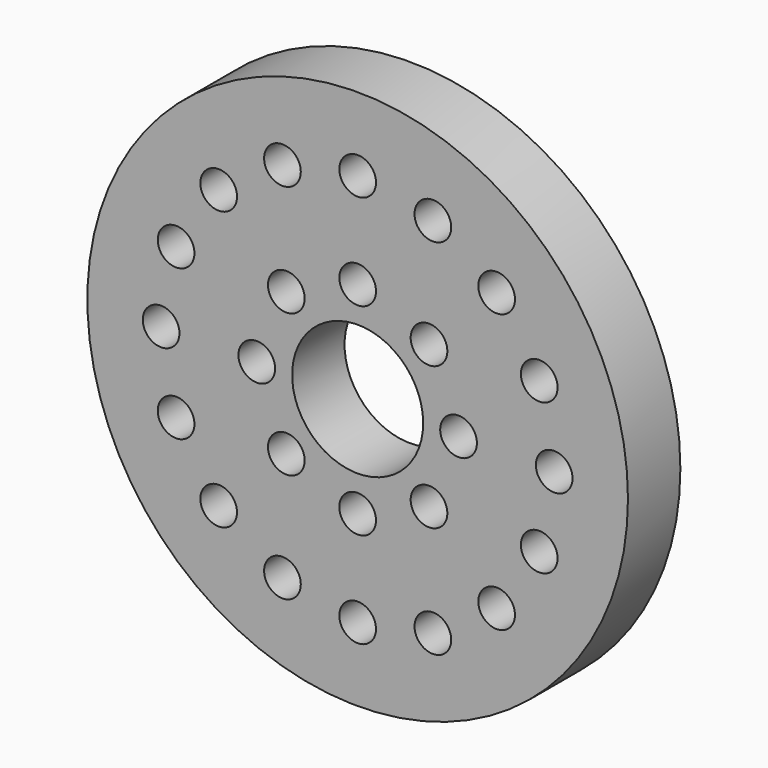
from build123d import *

# Parameters (mm, degrees)
F0_R     = 26.2001
F0_R_2   = 1.778
F0_R_3   = 6.35
F1_DEPTH = 6.35


with BuildPart() as f1:
    # F0 (on Front) → F1 (new body)
    with BuildSketch(Plane.XZ):
        Circle(F0_R)
        with Locations((-13.470384, -13.470384)):
            Circle(F0_R_2, mode=Mode.SUBTRACT)
        with Locations((-7.290119, -17.599905)):
            Circle(F0_R_2, mode=Mode.SUBTRACT)
        with Locations((0, -19.05)):
            Circle(F0_R_2, mode=Mode.SUBTRACT)
        with Locations((-17.599905, -7.290119)):
            Circle(F0_R_2, mode=Mode.SUBTRACT)
        with Locations((-19.05, 0)):
            Circle(F0_R_2, mode=Mode.SUBTRACT)
        with Locations((-6.914797, -6.914797)):
            Circle(F0_R_2, mode=Mode.SUBTRACT)
        with Locations((0, -9.779)):
            Circle(F0_R_2, mode=Mode.SUBTRACT)
        with Locations((-9.779, 0)):
            Circle(F0_R_2, mode=Mode.SUBTRACT)
        Circle(F0_R_3, mode=Mode.SUBTRACT)
        with Locations((7.290119, -17.599905)):
            Circle(F0_R_2, mode=Mode.SUBTRACT)
        with Locations((13.470384, -13.470384)):
            Circle(F0_R_2, mode=Mode.SUBTRACT)
        with Locations((6.914797, -6.914797)):
            Circle(F0_R_2, mode=Mode.SUBTRACT)
        with Locations((9.779, 0)):
            Circle(F0_R_2, mode=Mode.SUBTRACT)
        with Locations((17.599905, -7.290119)):
            Circle(F0_R_2, mode=Mode.SUBTRACT)
        with Locations((19.05, 0)):
            Circle(F0_R_2, mode=Mode.SUBTRACT)
        with Locations((-17.599905, 7.290119)):
            Circle(F0_R_2, mode=Mode.SUBTRACT)
        with Locations((-6.914797, 6.914797)):
            Circle(F0_R_2, mode=Mode.SUBTRACT)
        with Locations((0, 9.779)):
            Circle(F0_R_2, mode=Mode.SUBTRACT)
        with Locations((-13.470384, 13.470384)):
            Circle(F0_R_2, mode=Mode.SUBTRACT)
        with Locations((-7.290119, 17.599905)):
            Circle(F0_R_2, mode=Mode.SUBTRACT)
        with Locations((0, 19.05)):
            Circle(F0_R_2, mode=Mode.SUBTRACT)
        with Locations((6.914797, 6.914797)):
            Circle(F0_R_2, mode=Mode.SUBTRACT)
        with Locations((17.599905, 7.290119)):
            Circle(F0_R_2, mode=Mode.SUBTRACT)
        with Locations((7.290119, 17.599905)):
            Circle(F0_R_2, mode=Mode.SUBTRACT)
        with Locations((13.470384, 13.470384)):
            Circle(F0_R_2, mode=Mode.SUBTRACT)
    extrude(amount=F1_DEPTH)


solid = f1.part
